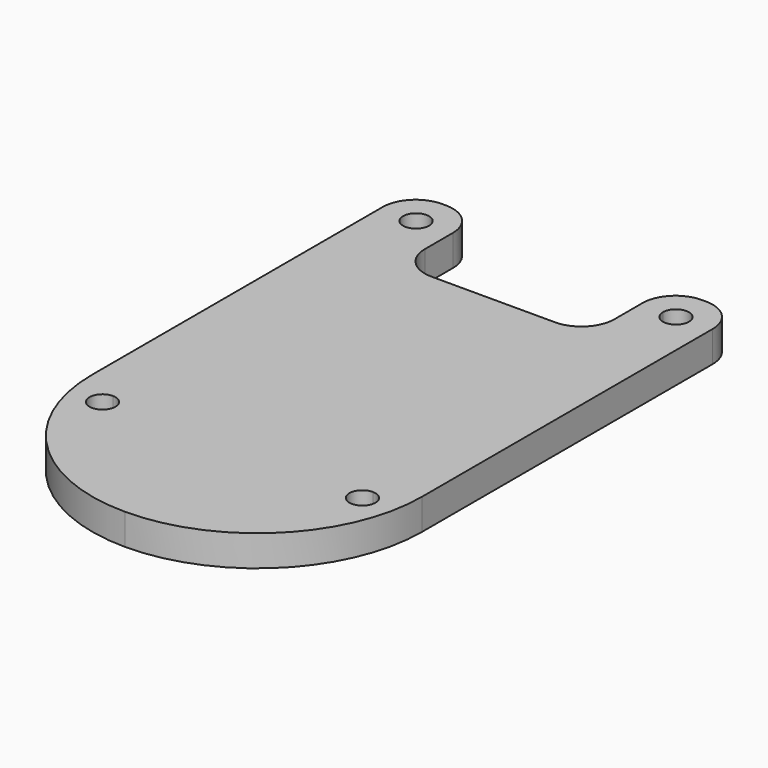
from build123d import *

# Parameters (mm, degrees)
F1_DEPTH = 2.38125


with BuildPart() as f1:
    # F0 (on Top) → F1 (new body)
    with BuildSketch(Plane.XY):
        Polygon((10, 0), (0, 0), (-10, 0), (-10, -10), (10, -10), align=None)
        with BuildLine():
            Line((10, 10), (10, 0))
            Line((10, 0), (12.7, 0))
            Line((12.7, 0), (12.7, 15.24))
            ThreePointArc((12.7, 15.24), (11.956051, 17.036051), (10.16, 17.78))
            Line((10.16, 17.78), (9.8382, 17.78))
            ThreePointArc((9.8382, 17.78), (8.042149, 17.036051), (7.2982, 15.24))
            Line((7.2982, 15.24), (7.2982, 15.08))
            Line((7.2982, 15.08), (9, 15.08))
            ThreePointArc((9, 15.08), (10, 16.08), (11, 15.08))
            ThreePointArc((11, 15.08), (10.707107, 14.372893), (10, 14.08))
            Line((10, 14.08), (10, 10))
        make_face()
        with BuildLine():
            Line((-10, 0), (0, 0))
            Line((0, 0), (10, 0))
            Line((10, 0), (10, 10))
            Line((10, 10), (10, 14.08))
            ThreePointArc((10, 14.08), (9.292893, 14.372893), (9, 15.08))
            Line((9, 15.08), (7.2982, 15.08))
            Line((7.2982, 15.08), (7.2982, 12.54))
            ThreePointArc((7.2982, 12.54), (6.554251, 10.743949), (4.7582, 10))
            Line((4.7582, 10), (-4.7582, 10))
            ThreePointArc((-4.7582, 10), (-6.554251, 10.743949), (-7.2982, 12.54))
            Line((-7.2982, 12.54), (-7.2982, 15.08))
            Line((-7.2982, 15.08), (-9, 15.08))
            ThreePointArc((-9, 15.08), (-9.292893, 14.372893), (-10, 14.08))
            Line((-10, 14.08), (-10, 10))
            Line((-10, 10), (-10, 0))
        make_face()
        with BuildLine():
            Line((-12.7, 0), (-10, 0))
            Line((-10, 0), (-10, 10))
            Line((-10, 10), (-10, 14.08))
            ThreePointArc((-10, 14.08), (-10.707107, 15.787107), (-9, 15.08))
            Line((-9, 15.08), (-7.2982, 15.08))
            Line((-7.2982, 15.08), (-7.2982, 15.24))
            ThreePointArc((-7.2982, 15.24), (-8.042149, 17.036051), (-9.8382, 17.78))
            Line((-9.8382, 17.78), (-10.16, 17.78))
            ThreePointArc((-10.16, 17.78), (-11.956051, 17.036051), (-12.7, 15.24))
            Line((-12.7, 15.24), (-12.7, 0))
        make_face()
        with BuildLine():
            Line((12.7, 0), (10, 0))
            Line((10, 0), (10, -10))
            Line((10, -10), (-10, -10))
            Line((-10, -10), (-10, 0))
            Line((-10, 0), (-12.7, 0))
            Line((-12.7, 0), (-12.7, -12.7))
            ThreePointArc((-12.7, -12.7), (-8.980256, -21.680256), (0, -25.4))
            ThreePointArc((0, -25.4), (8.980256, -21.680256), (12.7, -12.7))
            Line((12.7, -12.7), (12.7, 0))
        make_face()
        with BuildLine():
            ThreePointArc((-9, -15.08), (-10.707107, -15.787107), (-10, -14.08))
            ThreePointArc((-10, -14.08), (-9.292893, -14.372893), (-9, -15.08))
        make_face(mode=Mode.SUBTRACT)
        with BuildLine():
            ThreePointArc((11, -15.08), (9.292893, -15.787107), (10, -14.08))
            ThreePointArc((10, -14.08), (10.707107, -14.372893), (11, -15.08))
        make_face(mode=Mode.SUBTRACT)
    extrude(amount=F1_DEPTH)


solid = f1.part
